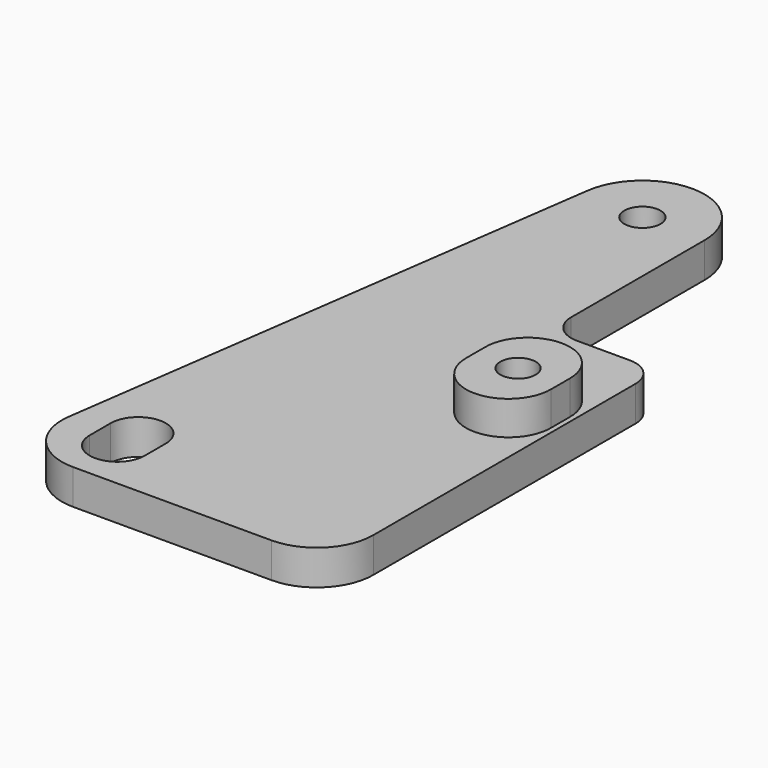
from build123d import *

# Parameters (mm, degrees)
F0_R     = 3.125
F0_R_2   = 3.2
F1_DEPTH = 6.2
F2_R     = 3.125
F3_DEPTH = 6


with BuildPart() as f1:
    # F0 (on Top) → F1 (new body)
    with BuildSketch(Plane.XY):
        with BuildLine():
            Line((11, -29.5), (11, 0))
            ThreePointArc((11, 0), (0.767321, 10.973205), (-10.892949, 1.530904))
            Line((-10.892949, 1.530904), (-24.61524, -96.108269))
            ThreePointArc((-24.61524, -96.108269), (-22.259655, -104.06059), (-14.712559, -107.5))
            Line((-14.712559, -107.5), (20.38476, -107.5))
            ThreePointArc((20.38476, -107.5), (27.455828, -104.571068), (30.38476, -97.5))
            Line((30.38476, -97.5), (30.38476, -39.5))
            ThreePointArc((30.38476, -39.5), (28.920294, -35.964466), (25.38476, -34.5))
            Line((25.38476, -34.5), (16, -34.5))
            ThreePointArc((16, -34.5), (12.464466, -33.035534), (11, -29.5))
        make_face()
        with BuildLine():
            Line((-18.875, -98.65), (-18.875, -94))
            ThreePointArc((-18.875, -94), (-14, -89.125), (-9.125, -94))
            Line((-9.125, -94), (-9.125, -98.65))
            ThreePointArc((-9.125, -98.65), (-14, -103.525), (-18.875, -98.65))
        make_face(mode=Mode.SUBTRACT)
        with Locations((22, -55)):
            Circle(F0_R, mode=Mode.SUBTRACT)
        Circle(F0_R_2, mode=Mode.SUBTRACT)
    extrude(amount=F1_DEPTH)

    # F2 (on face) → F3 (join)
    with BuildSketch(Plane.XY.offset(6.2)):
        with BuildLine():
            ThreePointArc((29.5, -52.875), (22, -45.375), (14.5, -52.875))
            Line((14.5, -52.875), (14.5, -57.125))
            ThreePointArc((14.5, -57.125), (22, -64.625), (29.5, -57.125))
            Line((29.5, -57.125), (29.5, -52.875))
        make_face()
        with Locations((22, -55)):
            Circle(F2_R, mode=Mode.SUBTRACT)
    extrude(amount=F3_DEPTH)


solid = f1.part
